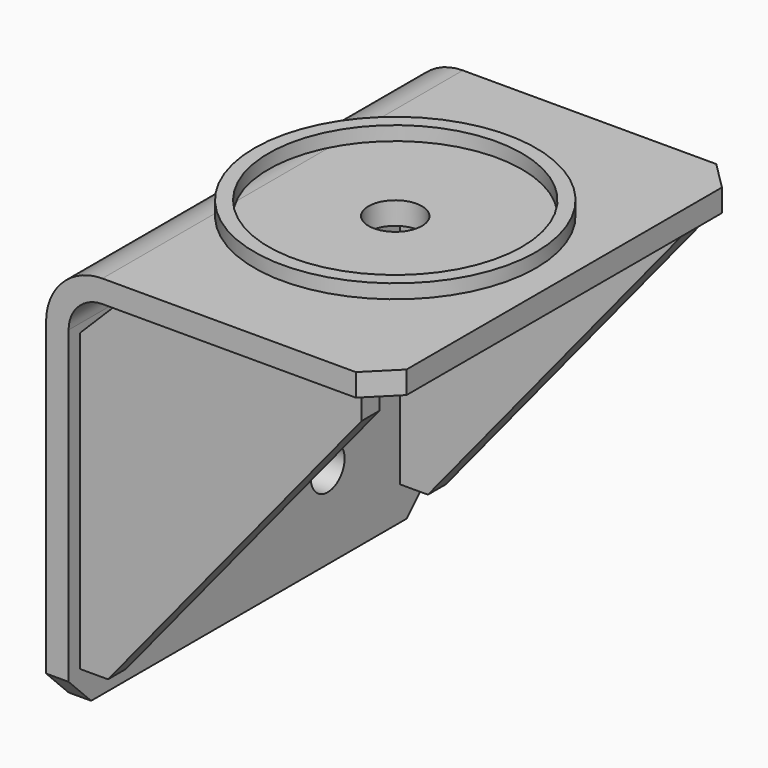
from build123d import *

# Parameters (mm, degrees)
F1_DEPTH  = 80
F2_W      = 8
F2_H      = 108
F2_H_2    = 12
F3_DEPTH  = 100
F4_SIZE   = 15
F4_2_SIZE = 15
F6_DEPTH  = 155.001
F7_R      = 9.5
F8_DEPTH  = 140.001
F7_R_2    = 50
F7_R_3    = 45
F9_DEPTH  = 5
F10_SIZE  = 10
F11_R     = 7.5
F12_DEPTH = 25
F13_DEPTH = 120.001


with BuildPart() as f1:
    # F0 (on Front) → F1 (new body, symmetric)
    with BuildSketch(Plane.XZ):
        with BuildLine():
            Line((0, 120), (0, 0))
            Line((0, 0), (8, 0))
            Line((8, 0), (8, 120))
            ThreePointArc((8, 120), (11.5147186258, 128.4852813742), (20, 132))
            Line((20, 132), (120, 132))
            Line((120, 132), (120, 140))
            Line((120, 140), (20, 140))
            ThreePointArc((20, 140), (5.8578643763, 134.1421356237), (0, 120))
        make_face()
    extrude(amount=F1_DEPTH, both=True)

    # F7 (on face) → F8 (cut, through all)
    with BuildSketch(Plane.XY.offset(140)):
        with Locations((60, 0)):
            Circle(F7_R)
    extrude(amount=-F8_DEPTH, mode=Mode.SUBTRACT)

    # F10
    f10_edges = [f1.edges().sort_by_distance(p)[0] for p in [
        (120, -80, 136),
        (4, -80, 0),
        (120, 80, 136),
        (4, 80, 0),
    ]]
    chamfer(f10_edges, length=F10_SIZE)

    # F11 (on face) → F12 (cut)
    with BuildSketch(Plane(origin=(0, 0, 0), x_dir=(0, -1, 0), z_dir=(-1, 0, 0))):
        with Locations((-35, 90)):
            Circle(F11_R)
        with Locations((35, 90)):
            Circle(F11_R)
        with Locations((35, 30)):
            Circle(F11_R)
        with Locations((-35, 30)):
            Circle(F11_R)
    extrude(amount=-F12_DEPTH, mode=Mode.SUBTRACT)

    # F11 (on face) → F13 (cut, through all)
    with BuildSketch(Plane(origin=(0, 0, 0), x_dir=(0, -1, 0), z_dir=(-1, 0, 0))):
        with Locations((-35, 90)):
            Circle(F11_R)
        with Locations((35, 90)):
            Circle(F11_R)
    extrude(amount=-F13_DEPTH, mode=Mode.SUBTRACT)


with BuildPart() as f3:
    # F2 (on face) → F3 (new body)
    with BuildSketch(Plane.YZ.offset(8)):
        with Locations((-71, 66)):
            Rectangle(F2_W, F2_H)
        with Locations((-71, 126)):
            Rectangle(F2_W, F2_H_2)
    extrude(amount=F3_DEPTH)

    # F4#2
    f4_2_edges = [f3.edges().sort_by_distance(p)[0] for p in [
        (8, -71, 132),
    ]]
    chamfer(f4_2_edges, length=F4_2_SIZE)


with BuildPart() as f3b:
    # F2 (on face) → F3, piece 2 (new body)
    with BuildSketch(Plane.YZ.offset(8)):
        with Locations((71, 66)):
            Rectangle(F2_W, F2_H)
        with Locations((71, 126)):
            Rectangle(F2_W, F2_H_2)
    extrude(amount=F3_DEPTH)

    # F4
    f4_edges = [f3b.edges().sort_by_distance(p)[0] for p in [
        (8, 71, 132),
    ]]
    chamfer(f4_edges, length=F4_SIZE)


with BuildPart() as f6_tool:
    # F5 (on face) → F6 (new body, through all)
    with BuildSketch(Plane(origin=(0, 75, 0), x_dir=(-1, 0, 0), z_dir=(0, 1, 0))):
        Polygon((-18, 12), (-108, 122), (-108, 12), align=None)
    extrude(amount=-F6_DEPTH)


with BuildPart() as f3_1:
    add(f3.part)

    # F6: cut by f6_tool
    add(f6_tool.part, mode=Mode.SUBTRACT)


with BuildPart() as f3b_1:
    add(f3b.part)

    # F6: cut by f6_tool
    add(f6_tool.part, mode=Mode.SUBTRACT)


with BuildPart() as f9:
    # F7 (on face) → F9 (new body)
    with BuildSketch(Plane.XY.offset(140)):
        with Locations((60, 0)):
            Circle(F7_R_2)
        with Locations((60, 0)):
            Circle(F7_R_3, mode=Mode.SUBTRACT)
    extrude(amount=F9_DEPTH)


solid = Compound([f1.part, f3_1.part, f3b_1.part, f9.part])
